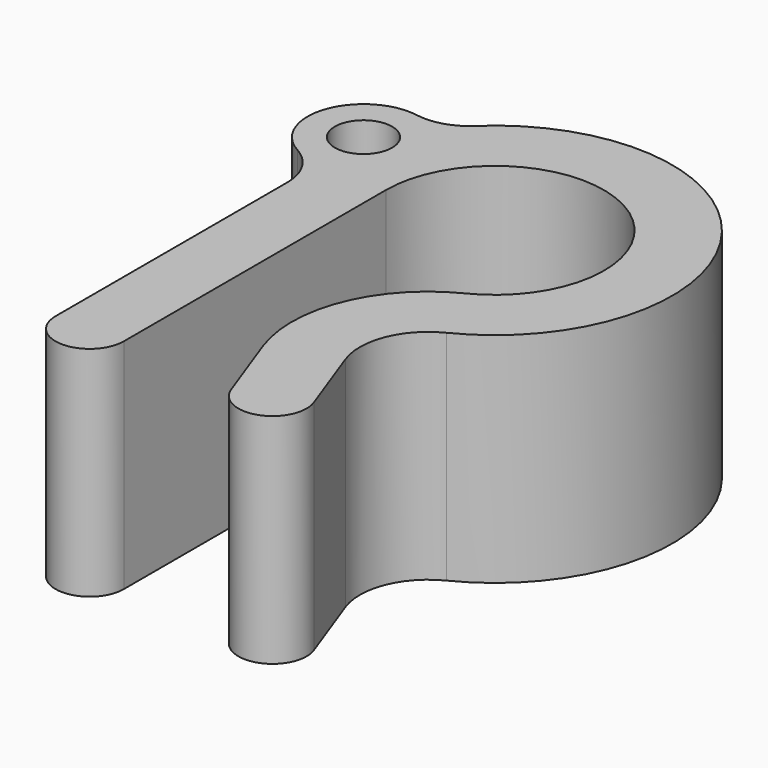
from build123d import *

# Parameters (mm, degrees)
F0_R     = 1.05
F1_DEPTH = 8


with BuildPart() as f1:
    # F0 (on Top) → F1 (new body)
    with BuildSketch(Plane.XY):
        with BuildLine():
            ThreePointArc((-4, 0), (2.108185, 3.399346), (1.777778, -3.583226))
            ThreePointArc((1.777778, -3.583226), (-0.642231, -6.204924), (-0.698463, -9.772358))
            Line((-0.698463, -9.772358), (0.266709, -12.424147))
            ThreePointArc((0.266709, -12.424147), (1.86885, -13.171237), (2.61594, -11.569096))
            Line((2.61594, -11.569096), (1.650768, -8.917308))
            ThreePointArc((1.650768, -8.917308), (1.678884, -7.133591), (2.888889, -5.822742))
            ThreePointArc((2.888889, -5.822742), (5.32454, 3.728172), (-4.483398, 4.706288))
            ThreePointArc((-4.483398, 4.706288), (-5.280783, 4.240967), (-6.202211, 4.183369))
            ThreePointArc((-6.202211, 4.183369), (-8.485088, 2.839794), (-7.537037, 0.36635))
            ThreePointArc((-7.537037, 0.36635), (-6.778674, -0.368212), (-6.5, -1.386562))
            Line((-6.5, -1.386562), (-6.5, -12.012463))
            ThreePointArc((-6.5, -12.012463), (-5.25, -13.262463), (-4, -12.012463))
            Line((-4, -12.012463), (-4, 0))
        make_face()
        with Locations((-6.55, 2.163086)):
            Circle(F0_R, mode=Mode.SUBTRACT)
    extrude(amount=F1_DEPTH)


solid = f1.part
